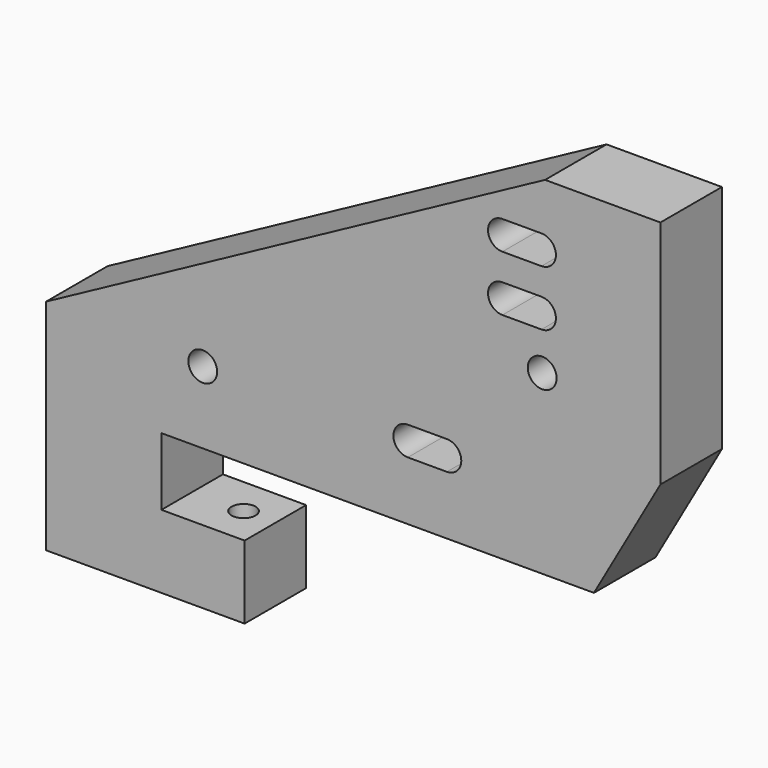
from build123d import *

# Parameters (mm, degrees)
F1_DEPTH = 25.4
F2_R     = 4.7625
F3_DEPTH = 25.401
F5_D     = 7.9375
F5_DEPTH = 25.4
F5_TIP   = 2.3846655818


with BuildPart() as f1:
    # F0 (on Front) → F1 (new body)
    with BuildSketch(Plane.XZ):
        Polygon((0, 72.3138), (0, 0), (65.5828, 0), (65.5828, 24.1554), (38.1, 24.1554), (38.1, 46.4693), (180.975, 46.4693), (202.9293194803, 85.1191428995), (202.9293194803, 161.3191428995), (164.8293194803, 161.3191428995), align=None)
    extrude(amount=F1_DEPTH)

    # F2 (on face) → F3 (cut, through all)
    with BuildSketch(Plane.XZ.offset(25.4)):
        with Locations((51.7525, 70.2818)):
            Circle(F2_R)
        with Locations((163.8768194803, 104.8766)):
            Circle(F2_R)
        with BuildLine():
            Line((132.3975, 75.3999), (119.4943, 75.3999))
            ThreePointArc((119.4943, 75.3999), (114.7318, 70.6374), (119.4943, 65.8749))
            Line((119.4943, 65.8749), (132.3975, 65.8749))
            ThreePointArc((132.3975, 65.8749), (137.16, 70.6374), (132.3975, 75.3999))
        make_face()
        with BuildLine():
            Line((163.6482194803, 145.3769), (150.7450194803, 145.3769))
            ThreePointArc((150.7450194803, 145.3769), (145.9825194803, 140.6144), (150.7450194803, 135.8519))
            Line((150.7450194803, 135.8519), (163.6482194803, 135.8519))
            ThreePointArc((163.6482194803, 135.8519), (168.4107194803, 140.6144), (163.6482194803, 145.3769))
        make_face()
        with BuildLine():
            Line((163.6482194803, 126.9619), (150.7450194803, 126.9619))
            ThreePointArc((150.7450194803, 126.9619), (145.9825194803, 122.1994), (150.7450194803, 117.4369))
            Line((150.7450194803, 117.4369), (163.6482194803, 117.4369))
            ThreePointArc((163.6482194803, 117.4369), (168.4107194803, 122.1994), (163.6482194803, 126.9619))
        make_face()
    extrude(amount=-F3_DEPTH, mode=Mode.SUBTRACT)

    # F5
    with Locations(Plane(origin=(0, 0, 0), x_dir=(1, 0, 0), z_dir=(0, 0, -1))):
        with Locations((55.0799, 12.7)):
            Hole(F5_D / 2, depth=F5_DEPTH)
            with Locations((0, 0, -(F5_DEPTH + F5_TIP / 2))):  # 118° drill point
                Cone(0, F5_D / 2, F5_TIP, mode=Mode.SUBTRACT)


solid = f1.part
